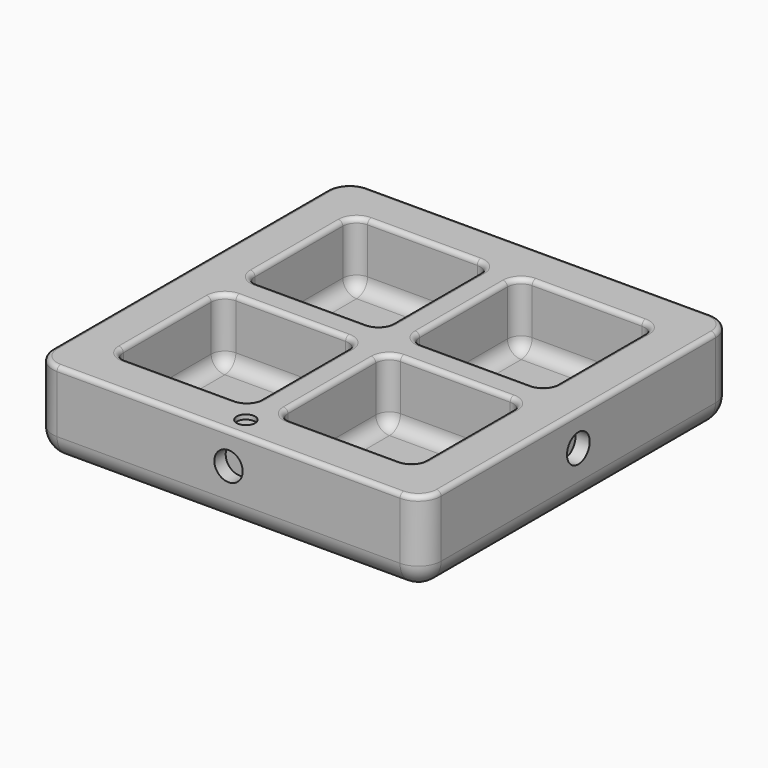
from build123d import *

# Parameters (mm, degrees)
F0_W      = 85
F0_H      = 85
F0_R      = 2
F3_DEPTH  = 18.5
F4_DEPTH  = 14
F5_R      = 5
F6_R      = 3
F7_R      = 1
F8_R      = 3.1
F9_DEPTH  = 3.1
F10_R     = 3.1
F11_DEPTH = 3.1
F12_R     = 3.1
F13_DEPTH = 3.1
F14_R     = 3.1
F15_DEPTH = 3.1
F16_DEPTH = 1
F17_ANGLE = 180


with BuildPart() as f3:
    # F0 (on Top) → F3 (new body)
    with BuildSketch(Plane.XY):
        Rectangle(F0_W, F0_H)
        with BuildLine():
            ThreePointArc((-33, -6), (-32.1213203436, -3.8786796564), (-30, -3))
            Line((-30, -3), (-6, -3))
            ThreePointArc((-6, -3), (-3.8786796564, -3.8786796564), (-3, -6))
            Line((-3, -6), (-3, -30))
            ThreePointArc((-3, -30), (-3.8786796564, -32.1213203436), (-6, -33))
            Line((-6, -33), (-30, -33))
            ThreePointArc((-30, -33), (-32.1213203436, -32.1213203436), (-33, -30))
            Line((-33, -30), (-33, -6))
        make_face(mode=Mode.SUBTRACT)
        with Locations((0, -37.75)):
            Circle(F0_R, mode=Mode.SUBTRACT)
        with BuildLine():
            Line((6, -3), (30, -3))
            ThreePointArc((30, -3), (32.1213203436, -3.8786796564), (33, -6))
            Line((33, -6), (33, -30))
            ThreePointArc((33, -30), (32.1213203436, -32.1213203436), (30, -33))
            Line((30, -33), (6, -33))
            ThreePointArc((6, -33), (3.8786796564, -32.1213203436), (3, -30))
            Line((3, -30), (3, -6))
            ThreePointArc((3, -6), (3.8786796564, -3.8786796564), (6, -3))
        make_face(mode=Mode.SUBTRACT)
        with BuildLine():
            ThreePointArc((-33, 30), (-32.1213203436, 32.1213203436), (-30, 33))
            Line((-30, 33), (-6, 33))
            ThreePointArc((-6, 33), (-3.8786796564, 32.1213203436), (-3, 30))
            Line((-3, 30), (-3, 6))
            ThreePointArc((-3, 6), (-3.8786796564, 3.8786796564), (-6, 3))
            Line((-6, 3), (-30, 3))
            ThreePointArc((-30, 3), (-32.1213203436, 3.8786796564), (-33, 6))
            Line((-33, 6), (-33, 30))
        make_face(mode=Mode.SUBTRACT)
        with BuildLine():
            ThreePointArc((30, 33), (32.1213203436, 32.1213203436), (33, 30))
            Line((33, 30), (33, 6))
            ThreePointArc((33, 6), (32.1213203436, 3.8786796564), (30, 3))
            Line((30, 3), (6, 3))
            ThreePointArc((6, 3), (3.8786796564, 3.8786796564), (3, 6))
            Line((3, 6), (3, 30))
            ThreePointArc((3, 30), (3.8786796564, 32.1213203436), (6, 33))
            Line((6, 33), (30, 33))
        make_face(mode=Mode.SUBTRACT)
        with BuildLine():
            Line((-6, 33), (-30, 33))
            ThreePointArc((-30, 33), (-32.1213203436, 32.1213203436), (-33, 30))
            Line((-33, 30), (-33, 6))
            ThreePointArc((-33, 6), (-32.1213203436, 3.8786796564), (-30, 3))
            Line((-30, 3), (-6, 3))
            ThreePointArc((-6, 3), (-3.8786796564, 3.8786796564), (-3, 6))
            Line((-3, 6), (-3, 30))
            ThreePointArc((-3, 30), (-3.8786796564, 32.1213203436), (-6, 33))
        make_face()
        with BuildLine():
            Line((33, 6), (33, 30))
            ThreePointArc((33, 30), (32.1213203436, 32.1213203436), (30, 33))
            Line((30, 33), (6, 33))
            ThreePointArc((6, 33), (3.8786796564, 32.1213203436), (3, 30))
            Line((3, 30), (3, 6))
            ThreePointArc((3, 6), (3.8786796564, 3.8786796564), (6, 3))
            Line((6, 3), (30, 3))
            ThreePointArc((30, 3), (32.1213203436, 3.8786796564), (33, 6))
        make_face()
        with BuildLine():
            ThreePointArc((33, -6), (32.1213203436, -3.8786796564), (30, -3))
            Line((30, -3), (6, -3))
            ThreePointArc((6, -3), (3.8786796564, -3.8786796564), (3, -6))
            Line((3, -6), (3, -30))
            ThreePointArc((3, -30), (3.8786796564, -32.1213203436), (6, -33))
            Line((6, -33), (30, -33))
            ThreePointArc((30, -33), (32.1213203436, -32.1213203436), (33, -30))
            Line((33, -30), (33, -6))
        make_face()
        with BuildLine():
            Line((-6, -3), (-30, -3))
            ThreePointArc((-30, -3), (-32.1213203436, -3.8786796564), (-33, -6))
            Line((-33, -6), (-33, -30))
            ThreePointArc((-33, -30), (-32.1213203436, -32.1213203436), (-30, -33))
            Line((-30, -33), (-6, -33))
            ThreePointArc((-6, -33), (-3.8786796564, -32.1213203436), (-3, -30))
            Line((-3, -30), (-3, -6))
            ThreePointArc((-3, -6), (-3.8786796564, -3.8786796564), (-6, -3))
        make_face()
        with Locations((0, -37.75)):
            Circle(F0_R)
    extrude(amount=F3_DEPTH)

    # F0 (on Top) → F4 (cut)
    with BuildSketch(Plane.XY):
        with BuildLine():
            Line((-6, 33), (-30, 33))
            ThreePointArc((-30, 33), (-32.1213203436, 32.1213203436), (-33, 30))
            Line((-33, 30), (-33, 6))
            ThreePointArc((-33, 6), (-32.1213203436, 3.8786796564), (-30, 3))
            Line((-30, 3), (-6, 3))
            ThreePointArc((-6, 3), (-3.8786796564, 3.8786796564), (-3, 6))
            Line((-3, 6), (-3, 30))
            ThreePointArc((-3, 30), (-3.8786796564, 32.1213203436), (-6, 33))
        make_face()
        with BuildLine():
            Line((-6, -3), (-30, -3))
            ThreePointArc((-30, -3), (-32.1213203436, -3.8786796564), (-33, -6))
            Line((-33, -6), (-33, -30))
            ThreePointArc((-33, -30), (-32.1213203436, -32.1213203436), (-30, -33))
            Line((-30, -33), (-6, -33))
            ThreePointArc((-6, -33), (-3.8786796564, -32.1213203436), (-3, -30))
            Line((-3, -30), (-3, -6))
            ThreePointArc((-3, -6), (-3.8786796564, -3.8786796564), (-6, -3))
        make_face()
        with BuildLine():
            ThreePointArc((33, -6), (32.1213203436, -3.8786796564), (30, -3))
            Line((30, -3), (6, -3))
            ThreePointArc((6, -3), (3.8786796564, -3.8786796564), (3, -6))
            Line((3, -6), (3, -30))
            ThreePointArc((3, -30), (3.8786796564, -32.1213203436), (6, -33))
            Line((6, -33), (30, -33))
            ThreePointArc((30, -33), (32.1213203436, -32.1213203436), (33, -30))
            Line((33, -30), (33, -6))
        make_face()
        with BuildLine():
            Line((33, 6), (33, 30))
            ThreePointArc((33, 30), (32.1213203436, 32.1213203436), (30, 33))
            Line((30, 33), (6, 33))
            ThreePointArc((6, 33), (3.8786796564, 32.1213203436), (3, 30))
            Line((3, 30), (3, 6))
            ThreePointArc((3, 6), (3.8786796564, 3.8786796564), (6, 3))
            Line((6, 3), (30, 3))
            ThreePointArc((30, 3), (32.1213203436, 3.8786796564), (33, 6))
        make_face()
    extrude(amount=F4_DEPTH, mode=Mode.SUBTRACT)

    # F5
    f5_edges = [f3.edges().sort_by_distance(p)[0] for p in [
        (0, 42.5, 18.5),
        (-42.5, 0, 18.5),
        (0, -42.5, 18.5),
        (42.5, 0, 18.5),
        (42.5, 42.5, 9.25),
        (-42.5, 42.5, 9.25),
        (-42.5, -42.5, 9.25),
        (42.5, -42.5, 9.25),
    ]]
    fillet(f5_edges, radius=F5_R)

    # F6
    f6_edges = [f3.edges().sort_by_distance(p)[0] for p in [
        (-3.87868, 32.12132, 14),
        (-18, 33, 14),
        (-32.12132, 32.12132, 14),
        (-33, 18, 14),
        (-32.12132, 3.87868, 14),
        (-18, 3, 14),
        (-3.87868, 3.87868, 14),
        (-3, 18, 14),
        (-3, -18, 14),
        (-3.87868, -3.87868, 14),
        (-18, -3, 14),
        (-32.12132, -3.87868, 14),
        (-33, -18, 14),
        (-32.12132, -32.12132, 14),
        (-18, -33, 14),
        (-3.87868, -32.12132, 14),
        (32.12132, -3.87868, 14),
        (18, -3, 14),
        (3.87868, -3.87868, 14),
        (3, -18, 14),
        (3.87868, -32.12132, 14),
        (18, -33, 14),
        (32.12132, -32.12132, 14),
        (33, -18, 14),
        (32.12132, 3.87868, 14),
        (33, 18, 14),
        (32.12132, 32.12132, 14),
        (18, 33, 14),
        (3.87868, 32.12132, 14),
        (3, 18, 14),
        (3.87868, 3.87868, 14),
        (18, 3, 14),
    ]]
    fillet(f6_edges, radius=F6_R)

    # F7
    f7_edges = [f3.edges().sort_by_distance(p)[0] for p in [
        (0, 42.5, 0),
        (41.035534, 41.035534, 0),
        (-41.035534, 41.035534, 0),
        (42.5, 0, 0),
        (-42.5, 0, 0),
        (41.035534, -41.035534, 0),
        (-41.035534, -41.035534, 0),
        (0, -42.5, 0),
        (-3, -18, 0),
        (-3.87868, -3.87868, 0),
        (-18, -3, 0),
        (-32.12132, -3.87868, 0),
        (-33, -18, 0),
        (-32.12132, -32.12132, 0),
        (-18, -33, 0),
        (-3.87868, -32.12132, 0),
        (32.12132, -3.87868, 0),
        (18, -3, 0),
        (3.87868, -3.87868, 0),
        (3, -18, 0),
        (3.87868, -32.12132, 0),
        (18, -33, 0),
        (32.12132, -32.12132, 0),
        (33, -18, 0),
        (-3.87868, 32.12132, 0),
        (-18, 33, 0),
        (-32.12132, 32.12132, 0),
        (-33, 18, 0),
        (-32.12132, 3.87868, 0),
        (-18, 3, 0),
        (-3.87868, 3.87868, 0),
        (-3, 18, 0),
        (32.12132, 3.87868, 0),
        (33, 18, 0),
        (32.12132, 32.12132, 0),
        (18, 33, 0),
        (3.87868, 32.12132, 0),
        (3, 18, 0),
        (3.87868, 3.87868, 0),
        (18, 3, 0),
    ]]
    fillet(f7_edges, radius=F7_R)

    # F8 (on face) → F9 (cut)
    with BuildSketch(Plane.XZ.offset(42.5)):
        with Locations((0, 7)):
            Circle(F8_R)
    extrude(amount=-F9_DEPTH, mode=Mode.SUBTRACT)

    # F10 (on face) → F11 (cut)
    with BuildSketch(Plane(origin=(0, 42.5, 0), x_dir=(-1, 0, 0), z_dir=(0, 1, 0))):
        with Locations((0, 7)):
            Circle(F10_R)
    extrude(amount=-F11_DEPTH, mode=Mode.SUBTRACT)

    # F12 (on face) → F13 (cut)
    with BuildSketch(Plane(origin=(-42.5, 0, 0), x_dir=(0, -1, 0), z_dir=(-1, 0, 0))):
        with Locations((0, 7)):
            Circle(F12_R)
    extrude(amount=-F13_DEPTH, mode=Mode.SUBTRACT)

    # F14 (on face) → F15 (cut)
    with BuildSketch(Plane.YZ.offset(42.5)):
        with Locations((0, 7)):
            Circle(F14_R)
    extrude(amount=-F15_DEPTH, mode=Mode.SUBTRACT)

    # F0 (on Top) → F16 (cut)
    with BuildSketch(Plane.XY):
        with Locations((0, -37.75)):
            Circle(F0_R)
    extrude(amount=F16_DEPTH, mode=Mode.SUBTRACT)


with BuildPart() as f3_1:
    # F17: moved
    add(f3.part.rotate(Axis((0, 0, 0), (0, 1, 0)), F17_ANGLE))


solid = f3_1.part
